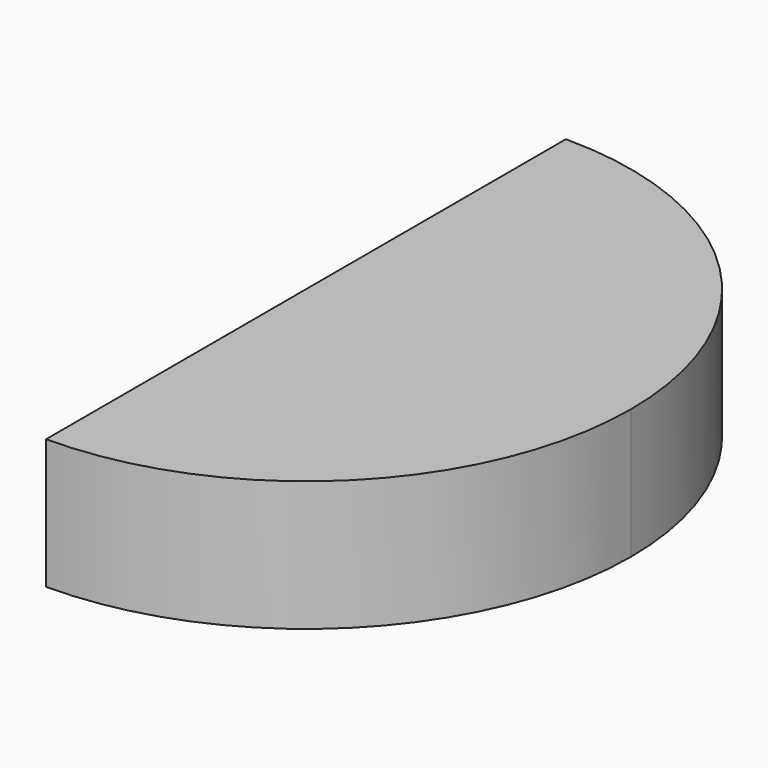
from build123d import *

# Parameters (mm, degrees)
F1_DEPTH = 25.4


with BuildPart() as f1:
    # F0 (on Top) → F1 (new body)
    with BuildSketch(Plane.XY):
        with BuildLine():
            ThreePointArc((0, -63.5), (44.9012806053, -44.9012806053), (63.5, 0))
            ThreePointArc((63.5, 0), (44.9012806053, 44.9012806053), (0, 63.5))
            Line((0, 63.5), (0, -63.5))
        make_face()
    extrude(amount=F1_DEPTH)


solid = f1.part
